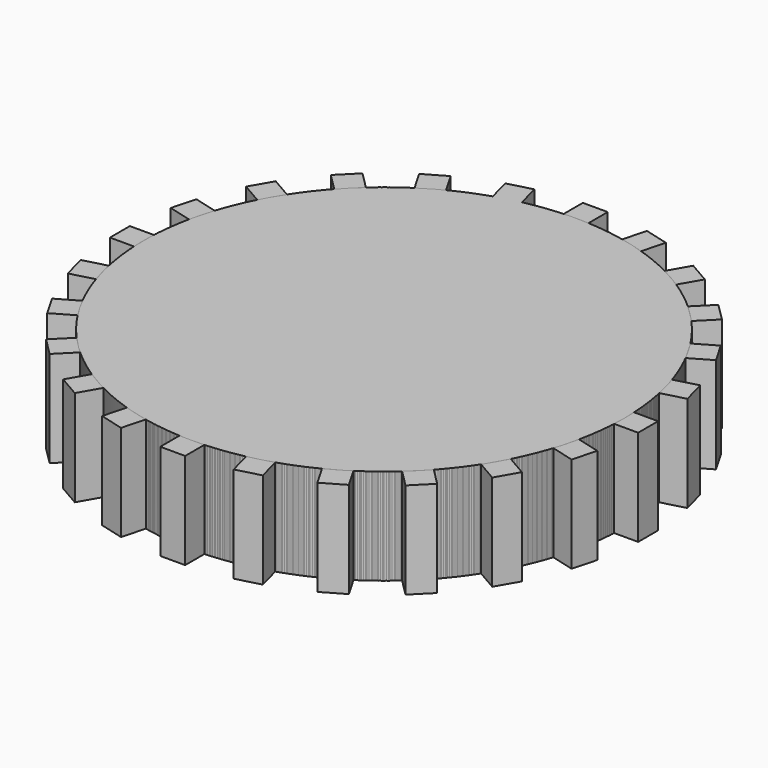
from build123d import *

# Parameters (mm, degrees)
F1_DEPTH = 5.08
F2_COUNT = 24


with BuildPart() as f1:
    # F0 (on Top) → F1 (new body)
    with BuildSketch(Plane.XY):
        with BuildLine():
            Line((-0.657473, 13.952283), (-0.657473, 12.68297))
            ThreePointArc((-0.657473, 12.68297), (0, -12.7), (0.657473, 12.68297))
            Line((0.657473, 12.68297), (0.657473, 13.952283))
            Line((0.657473, 13.952283), (0, 13.952283))
            Line((0, 13.952283), (-0.657473, 13.952283))
        make_face()
    extrude(amount=-F1_DEPTH)


with BuildPart() as f2_1:
    # F2: instance of F1
    add(f1.part.rotate(Axis((0, 0, 0), (0, 0, -1)), 1 * 360 / F2_COUNT))


with BuildPart() as f2_2:
    # F2: instance of F1
    add(f1.part.rotate(Axis((0, 0, 0), (0, 0, -1)), 2 * 360 / F2_COUNT))


with BuildPart() as f2_3:
    # F2: instance of F1
    add(f1.part.rotate(Axis((0, 0, 0), (0, 0, -1)), 3 * 360 / F2_COUNT))


with BuildPart() as f2_4:
    # F2: instance of F1
    add(f1.part.rotate(Axis((0, 0, 0), (0, 0, -1)), 4 * 360 / F2_COUNT))


with BuildPart() as f2_5:
    # F2: instance of F1
    add(f1.part.rotate(Axis((0, 0, 0), (0, 0, -1)), 5 * 360 / F2_COUNT))


with BuildPart() as f2_6:
    # F2: instance of F1
    add(f1.part.rotate(Axis((0, 0, 0), (0, 0, -1)), 6 * 360 / F2_COUNT))


with BuildPart() as f2_7:
    # F2: instance of F1
    add(f1.part.rotate(Axis((0, 0, 0), (0, 0, -1)), 7 * 360 / F2_COUNT))


with BuildPart() as f2_8:
    # F2: instance of F1
    add(f1.part.rotate(Axis((0, 0, 0), (0, 0, -1)), 8 * 360 / F2_COUNT))


with BuildPart() as f2_9:
    # F2: instance of F1
    add(f1.part.rotate(Axis((0, 0, 0), (0, 0, -1)), 9 * 360 / F2_COUNT))


with BuildPart() as f2_10:
    # F2: instance of F1
    add(f1.part.rotate(Axis((0, 0, 0), (0, 0, -1)), 10 * 360 / F2_COUNT))


with BuildPart() as f2_11:
    # F2: instance of F1
    add(f1.part.rotate(Axis((0, 0, 0), (0, 0, -1)), 11 * 360 / F2_COUNT))


with BuildPart() as f2_12:
    # F2: instance of F1
    add(f1.part.rotate(Axis((0, 0, 0), (0, 0, -1)), 12 * 360 / F2_COUNT))


with BuildPart() as f2_13:
    # F2: instance of F1
    add(f1.part.rotate(Axis((0, 0, 0), (0, 0, -1)), 13 * 360 / F2_COUNT))


with BuildPart() as f2_14:
    # F2: instance of F1
    add(f1.part.rotate(Axis((0, 0, 0), (0, 0, -1)), 14 * 360 / F2_COUNT))


with BuildPart() as f2_15:
    # F2: instance of F1
    add(f1.part.rotate(Axis((0, 0, 0), (0, 0, -1)), 15 * 360 / F2_COUNT))


with BuildPart() as f2_16:
    # F2: instance of F1
    add(f1.part.rotate(Axis((0, 0, 0), (0, 0, -1)), 16 * 360 / F2_COUNT))


with BuildPart() as f2_17:
    # F2: instance of F1
    add(f1.part.rotate(Axis((0, 0, 0), (0, 0, -1)), 17 * 360 / F2_COUNT))


with BuildPart() as f2_18:
    # F2: instance of F1
    add(f1.part.rotate(Axis((0, 0, 0), (0, 0, -1)), 18 * 360 / F2_COUNT))


with BuildPart() as f2_19:
    # F2: instance of F1
    add(f1.part.rotate(Axis((0, 0, 0), (0, 0, -1)), 19 * 360 / F2_COUNT))


with BuildPart() as f2_20:
    # F2: instance of F1
    add(f1.part.rotate(Axis((0, 0, 0), (0, 0, -1)), 20 * 360 / F2_COUNT))


with BuildPart() as f2_21:
    # F2: instance of F1
    add(f1.part.rotate(Axis((0, 0, 0), (0, 0, -1)), 21 * 360 / F2_COUNT))


with BuildPart() as f2_22:
    # F2: instance of F1
    add(f1.part.rotate(Axis((0, 0, 0), (0, 0, -1)), 22 * 360 / F2_COUNT))


with BuildPart() as f2_23:
    # F2: instance of F1
    add(f1.part.rotate(Axis((0, 0, 0), (0, 0, -1)), 23 * 360 / F2_COUNT))


solid = Compound([f1.part, f2_1.part, f2_2.part, f2_3.part, f2_4.part, f2_5.part, f2_6.part, f2_7.part, f2_8.part, f2_9.part, f2_10.part, f2_11.part, f2_12.part, f2_13.part, f2_14.part, f2_15.part, f2_16.part, f2_17.part, f2_18.part, f2_19.part, f2_20.part, f2_21.part, f2_22.part, f2_23.part])
